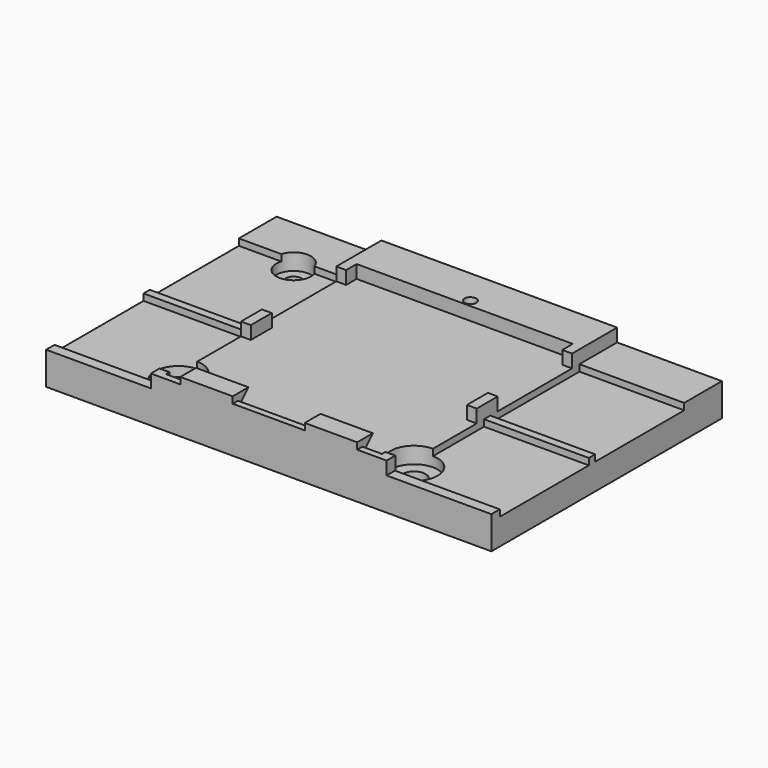
from build123d import *

# Parameters (mm, degrees)
SKETCH_W        = 68
SKETCH_H        = 44
SKETCH_R        = 1.75
SKETCH_R_2      = 1.2
PAD_DEPTH       = 5
SKETCH001_R     = 3.6
SKETCH001_R_2   = 2.65
POCKET_DEPTH    = 2.5
SKETCH002_W     = 1.5
SKETCH002_H     = 4
PAD001_DEPTH    = 2
SKETCH003_R     = 0.9
POCKET001_DEPTH = 5
SKETCH004_W     = 16
SKETCH004_H     = 17
POCKET002_DEPTH = 1
SKETCH005_W     = 8
SKETCH005_H     = 3
PAD002_DEPTH    = 1
POCKET003_DEPTH = 27


with BuildPart() as part:
    # Sketch → Pad (new body)
    with BuildSketch(Plane.XY):
        Rectangle(SKETCH_W, SKETCH_H)
        with Locations((18, -16.75)):
            Circle(SKETCH_R, mode=Mode.SUBTRACT)
        with Locations((-18, -16.75)):
            Circle(SKETCH_R, mode=Mode.SUBTRACT)
        with Locations((-25, 14)):
            Circle(SKETCH_R_2, mode=Mode.SUBTRACT)
    extrude(amount=PAD_DEPTH)

    # Sketch001 (on Face9 of Pad) → Pocket (cut)
    with BuildSketch(Plane.XY.offset(5)):
        with Locations((-18, -16.75)):
            Circle(SKETCH001_R)
        with Locations((18, -16.75)):
            Circle(SKETCH001_R)
        with Locations((-25, 14)):
            Circle(SKETCH001_R_2)
    extrude(amount=-POCKET_DEPTH, mode=Mode.SUBTRACT)

    # Sketch002 (on Face5 of Pocket) → Pad001 (join)
    with BuildSketch(Plane.XY.offset(5)):
        Polygon((-16.5, -21), (16.5, -21), (16.5, -20.35), (18, -20.35), (18, -22), (-18, -22), (-18, -20.35), (-16.5, -20.35), align=None)
        Polygon((16.5, 15.4), (16.5, 13.4), (18, 13.4), (18, 22), (-18, 22), (-18, 13.4), (-16.5, 13.4), (-16.5, 15.4), align=None)
        with Locations((-17.25, -2.8)):
            Rectangle(SKETCH002_W, SKETCH002_H)
        with Locations((17.25, -2.8)):
            Rectangle(SKETCH002_W, SKETCH002_H)
    extrude(amount=PAD001_DEPTH)

    # Sketch003 (on Face34 of Pad001) → Pocket001 (cut)
    with BuildSketch(Plane.XY.offset(7)):
        with Locations((0, 16.5)):
            Circle(SKETCH003_R)
    extrude(amount=-POCKET001_DEPTH, mode=Mode.SUBTRACT)

    # Sketch004 (on Face5 of Pocket001) → Pocket002 (cut)
    with BuildSketch(Plane.XY.offset(5)):
        with Locations((26, 6.3)):
            Rectangle(SKETCH004_W, SKETCH004_H)
        with Locations((26, -11.9)):
            Rectangle(SKETCH004_W, SKETCH004_H)
        with Locations((-26, 6.3)):
            Rectangle(SKETCH004_W, SKETCH004_H)
        with Locations((-26, -11.9)):
            Rectangle(SKETCH004_W, SKETCH004_H)
    extrude(amount=-POCKET002_DEPTH, mode=Mode.SUBTRACT)

    # Sketch005 (on Face21 of Pocket002) → Pad002 (join, symmetric)
    with BuildSketch(Plane.XY.offset(7)):
        with Locations((-9.5, -20.5)):
            Rectangle(SKETCH005_W, SKETCH005_H)
        with Locations((9.5, -20.5)):
            Rectangle(SKETCH005_W, SKETCH005_H)
    extrude(amount=PAD002_DEPTH, both=True)

    # Sketch006 (on Face62 of Pad002) → Pocket003 (cut)
    with BuildSketch(Plane.YZ.offset(13.5)):
        Polygon((-19, 6), (-21, 6), (-19, 8), align=None)
    extrude(amount=-POCKET003_DEPTH, mode=Mode.SUBTRACT)


solid = part.part
